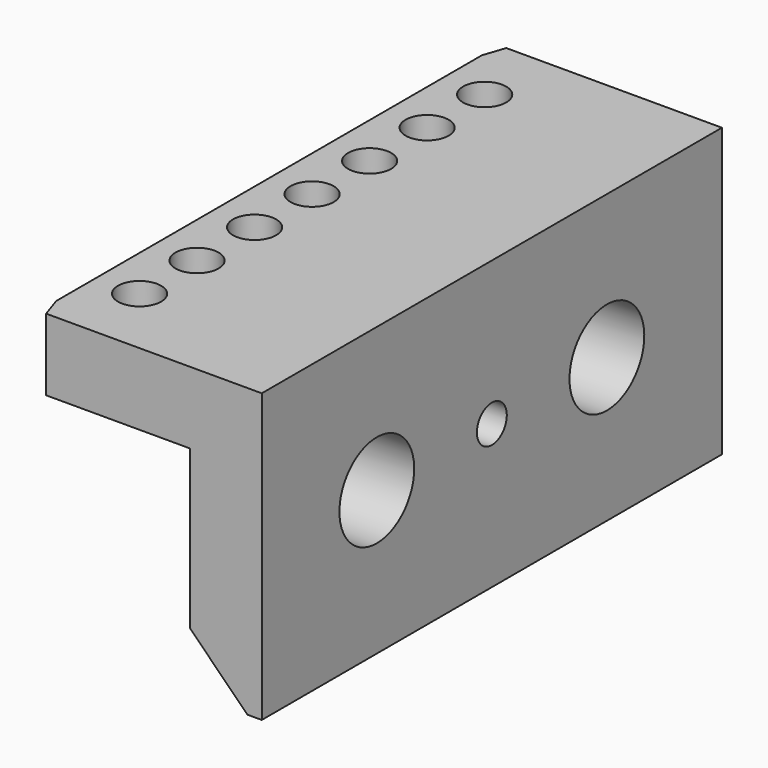
from build123d import *

# Parameters (mm, degrees)
SKETCH008_W     = 20
SKETCH008_H     = 40
SKETCH008_R     = 2.75
SKETCH008_R_2   = 1.3
PAD004_DEPTH    = 5
SKETCH009_W     = 5
SKETCH009_H     = 40
PAD005_DEPTH    = 15
SKETCH010_R     = 1.5
POCKET004_DEPTH = 5.001
SKETCH011_W     = 37
SKETCH011_H     = 6
POCKET005_DEPTH = 3
CHAMFER007_SIZE = 2
CHAMFER008_SIZE = 4
CHAMFER009_SIZE = 5
POCKET007_DEPTH = 5
SKETCH018_R     = 3.25
POCKET011_DEPTH = 7
SKETCH019_W     = 2
SKETCH019_H     = 2
POCKET012_DEPTH = 40.001


with BuildPart() as part:
    # Sketch008 (on DatumPlane) → Pad004 (new body)
    with BuildSketch(Plane(origin=(-5, 0, 20), x_dir=(0, 0, -1), z_dir=(-1, 0, 0))):
        with Locations((10, 20)):
            Rectangle(SKETCH008_W, SKETCH008_H)
        with Locations((10, 30)):
            Circle(SKETCH008_R, mode=Mode.SUBTRACT)
        with Locations((10, 10)):
            Circle(SKETCH008_R, mode=Mode.SUBTRACT)
        with Locations((10, 20)):
            Circle(SKETCH008_R_2, mode=Mode.SUBTRACT)
    extrude(amount=PAD004_DEPTH)

    # Sketch009 (on Face9 of Pad004) → Pad005 (join)
    with BuildSketch(Plane(origin=(-10, 0, 20), x_dir=(0, 0, -1), z_dir=(-1, 0, 0))):
        with Locations((2.5, 20)):
            Rectangle(SKETCH009_W, SKETCH009_H)
    extrude(amount=PAD005_DEPTH)

    # Sketch010 (on Face7 of Pad005) → Pocket004 (cut, through all)
    with BuildSketch(Plane(origin=(-5, 0, 15), x_dir=(0, -1, 0), z_dir=(0, 0, -1))):
        with Locations((5, 12.5)):
            Circle(SKETCH010_R)
        with Locations((10, 12.5)):
            Circle(SKETCH010_R)
        with Locations((15, 12.5)):
            Circle(SKETCH010_R)
        with Locations((20, 12.5)):
            Circle(SKETCH010_R)
        with Locations((25, 12.5)):
            Circle(SKETCH010_R)
        with Locations((30, 12.5)):
            Circle(SKETCH010_R)
        with Locations((35, 12.5)):
            Circle(SKETCH010_R)
    extrude(amount=-POCKET004_DEPTH, mode=Mode.SUBTRACT)

    # Sketch011 (on Face18 of Pocket004) → Pocket005 (cut)
    with BuildSketch(Plane(origin=(-5, 0, 15), x_dir=(0, -1, 0), z_dir=(0, 0, -1))):
        with Locations((20, 12.5)):
            Rectangle(SKETCH011_W, SKETCH011_H)
    extrude(amount=-POCKET005_DEPTH, mode=Mode.SUBTRACT)

    # Chamfer007
    chamfer007_edges = [part.edges().sort_by_distance(p)[0] for p in [
        (-10, -20, 15),
    ]]
    chamfer(chamfer007_edges, length=CHAMFER007_SIZE)

    # Chamfer008
    chamfer008_edges = [part.edges().sort_by_distance(p)[0] for p in [
        (-10, -20, 0),
    ]]
    chamfer(chamfer008_edges, length=CHAMFER008_SIZE)

    # Chamfer009
    chamfer009_edges = [part.edges().sort_by_distance(p)[0] for p in [
        (-25, 0, 17.5),
        (-25, -40, 17.5),
    ]]
    chamfer(chamfer009_edges, length=CHAMFER009_SIZE)

    # Sketch012 (on Face2 of Chamfer009) → Pocket007 (cut)
    with BuildSketch(Plane(origin=(-5, 0, 15), x_dir=(0, -1, 0), z_dir=(0, 0, -1))):
        Polygon((0, 15), (5, 20), (35, 20), (40, 15), (38.5, 15.5), (1.5, 15.5), align=None)
    extrude(amount=-POCKET007_DEPTH, mode=Mode.SUBTRACT)

    # Sketch018 (on Face6 of Pocket007) → Pocket011 (cut)
    with BuildSketch(Plane(origin=(-10, 0, 20), x_dir=(0, 0, -1), z_dir=(-1, 0, 0))):
        with Locations((10, 30)):
            Circle(SKETCH018_R)
        with Locations((10, 10)):
            Circle(SKETCH018_R)
    extrude(amount=-POCKET011_DEPTH, mode=Mode.SUBTRACT)

    # Sketch019 (on Face1 of Pocket011) → Pocket012 (cut, through all)
    with BuildSketch(Plane(origin=(-5, 0, 20), x_dir=(0, 0, -1), z_dir=(0, 1, 0))):
        with Locations((6, 6)):
            Rectangle(SKETCH019_W, SKETCH019_H)
    extrude(amount=-POCKET012_DEPTH, mode=Mode.SUBTRACT)


with BuildPart() as part_1:
    # Body003 placement: moved
    add(part.part.moved(Location((-21, 0, 0))))


solid = part_1.part
